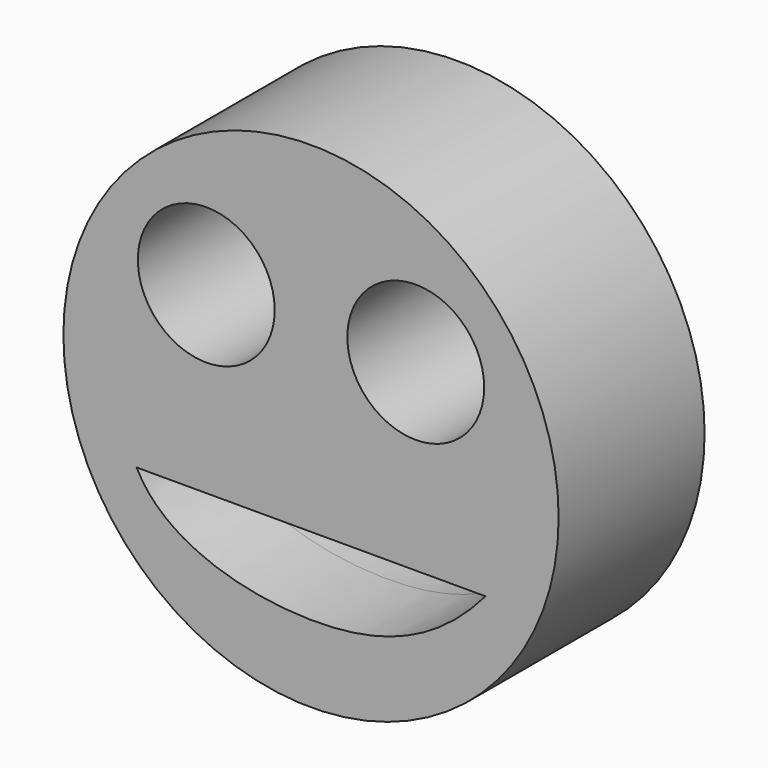
from build123d import *

# Parameters (mm, degrees)
F0_R     = 68.937965
F0_R_2   = 19.05
F1_DEPTH = 25.4


with BuildPart() as f1:
    # F0 (on Front) → F1 (new body, symmetric)
    with BuildSketch(Plane.XZ):
        Circle(F0_R)
        with BuildLine():
            add(Edge.make_bspline(
                [(-48.575778, -25.907984), (-40.904071, -41.075833), (3.039073, -53.441839), (34.825925, -42.032424), (48.575778, -25.907984)],
                knots=[0, 0, 0, 0, 53.157636, 106.315272, 106.315272, 106.315272, 106.315272], degree=3))
            Line((-48.575778, -25.907984), (0, -25.907984))
            Line((0, -25.907984), (48.575778, -25.907984))
        make_face(mode=Mode.SUBTRACT)
        with Locations((-29.159843, 25.145645)):
            Circle(F0_R_2, mode=Mode.SUBTRACT)
        with Locations((29.159843, 25.145645)):
            Circle(F0_R_2, mode=Mode.SUBTRACT)
    extrude(amount=F1_DEPTH, both=True)


solid = f1.part
